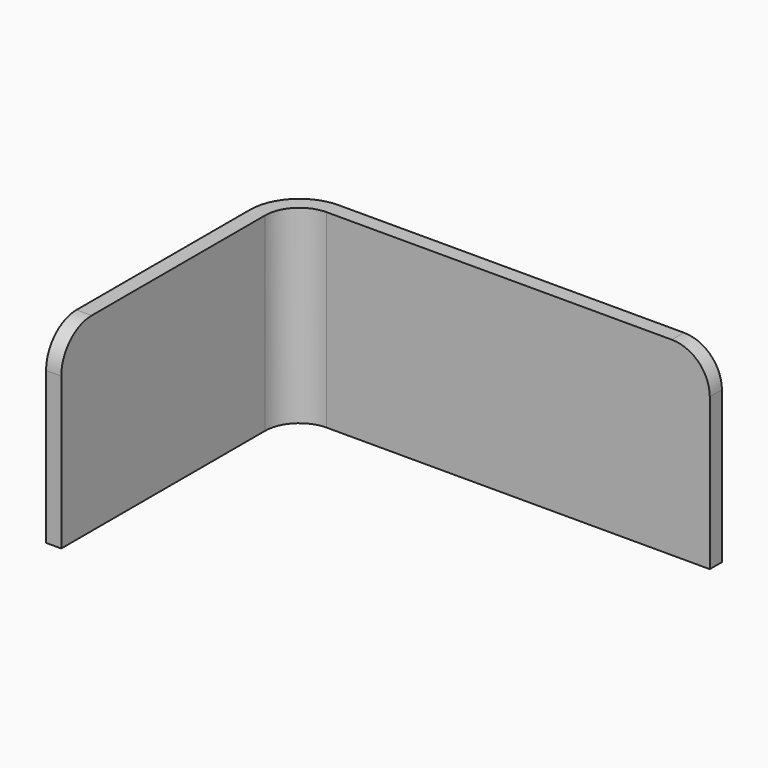
from build123d import *

# Parameters (mm, degrees)
F1_DEPTH = 25
F2_R     = 5


with BuildPart() as f1:
    # F0 (on Top) → F1 (new body)
    with BuildSketch(Plane.XY):
        with BuildLine():
            Line((-36.05, 21.3), (14.45, 21.3))
            Line((14.45, 21.3), (14.45, 23.3))
            Line((14.45, 23.3), (-36.05, 23.3))
            ThreePointArc((-36.05, 23.3), (-40.646194, 21.396194), (-42.55, 16.8))
            Line((-42.55, 16.8), (-42.55, -16.8))
            Line((-42.55, -16.8), (-40.55, -16.8))
            Line((-40.55, -16.8), (-40.55, 16.8))
            ThreePointArc((-40.55, 16.8), (-39.231981, 19.981981), (-36.05, 21.3))
        make_face()
    extrude(amount=F1_DEPTH)

    # F2
    f2_edges = [f1.edges().sort_by_distance(p)[0] for p in [
        (-41.55, -16.8, 25),
        (14.45, 22.3, 25),
    ]]
    fillet(f2_edges, radius=F2_R)


solid = f1.part
